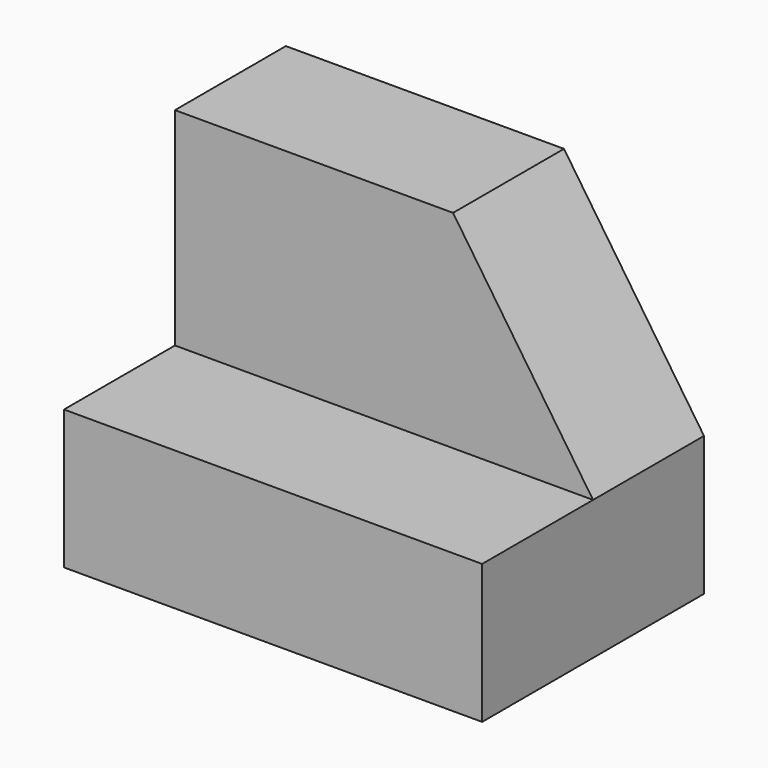
from build123d import *

# Parameters (mm, degrees)
F0_W     = 38.2953844965
F0_H     = 31.7133665085
F1_DEPTH = 25.4
F2_W     = 38.2953844965
F2_H     = 18.9767321572
F3_DEPTH = 12.7
F5_DEPTH = 12.701


with BuildPart() as f1:
    # F0 (on Front) → F1 (new body)
    with BuildSketch(Plane.XZ):
        with Locations((19.1476922482, 15.8566832542)):
            Rectangle(F0_W, F0_H)
    extrude(amount=F1_DEPTH)

    # F2 (on face) → F3 (cut)
    with BuildSketch(Plane.XZ.offset(25.4)):
        with Locations((19.1476922482, 22.2250004299)):
            Rectangle(F2_W, F2_H)
    extrude(amount=-F3_DEPTH, mode=Mode.SUBTRACT)

    # F4 (on face) → F5 (cut, through all)
    with BuildSketch(Plane.XZ.offset(12.7)):
        Polygon((38.2953844965, 31.7133665085), (25.4732687026, 31.7133665085), (38.2953844965, 12.7366343513), align=None)
    extrude(amount=-F5_DEPTH, mode=Mode.SUBTRACT)


solid = f1.part
